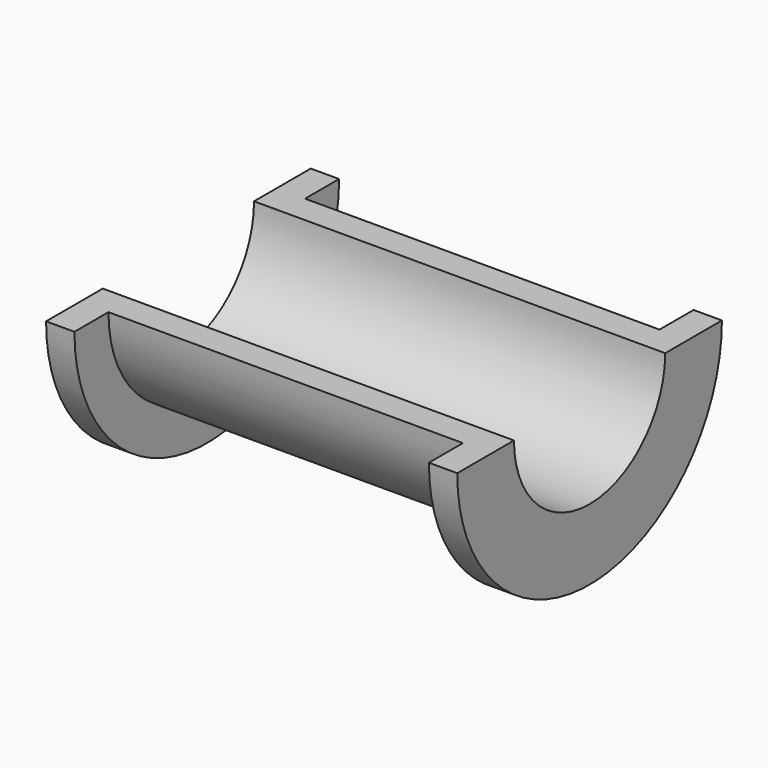
from build123d import *

# Parameters (mm, degrees)
F0_W     = 6
F0_H     = 9
F0_H_2   = 6
F0_W_2   = 75
F1_ANGLE = 180


with BuildPart() as f1:
    # F0 (on Top) → F1 (revolve)
    with BuildSketch(Plane.XY):
        with Locations((-40.5, -30.5)):
            Rectangle(F0_W, F0_H)
        with Locations((-40.5, -23)):
            Rectangle(F0_W, F0_H_2)
        with Locations((0, -23)):
            Rectangle(F0_W_2, F0_H_2)
        with Locations((40.5, -23)):
            Rectangle(F0_W, F0_H_2)
        with Locations((40.5, -30.5)):
            Rectangle(F0_W, F0_H)
    revolve(axis=Axis((2.968587, 0, 0), (1, 0, 0)), revolution_arc=F1_ANGLE)


solid = f1.part
